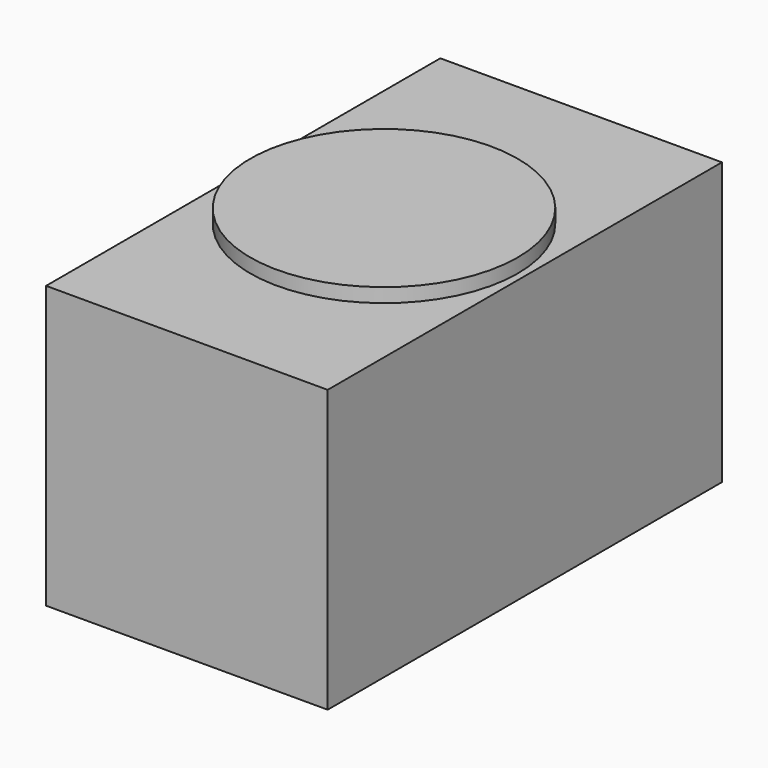
from build123d import *

# Parameters (mm, degrees)
F3_W     = 200
F3_H     = 200
F4_DEPTH = 350
F5_R     = 95
F6_DEPTH = 200.001
F7_R     = 95
F8_DEPTH = 210


with BuildPart() as f4:
    # F3 (on Front) → F4 (new body)
    with BuildSketch(Plane.XZ):
        with Locations((-47.4129579961, 0)):
            Rectangle(F3_W, F3_H)
    extrude(amount=F4_DEPTH)

    # F5 (on face) → F6 (cut, through all)
    with BuildSketch(Plane.XY.offset(100)):
        with Locations((-47.4129579961, -175)):
            Circle(F5_R)
    extrude(amount=-F6_DEPTH, mode=Mode.SUBTRACT)


with BuildPart() as f8:
    # F7 (on face) → F8 (new body)
    with BuildSketch(Plane(origin=(0, 0, -100), x_dir=(1, 0, 0), z_dir=(0, 0, -1))):
        with Locations((-47.4129579961, 175)):
            Circle(F7_R)
    extrude(amount=-F8_DEPTH)


solid = Compound([f4.part, f8.part])
